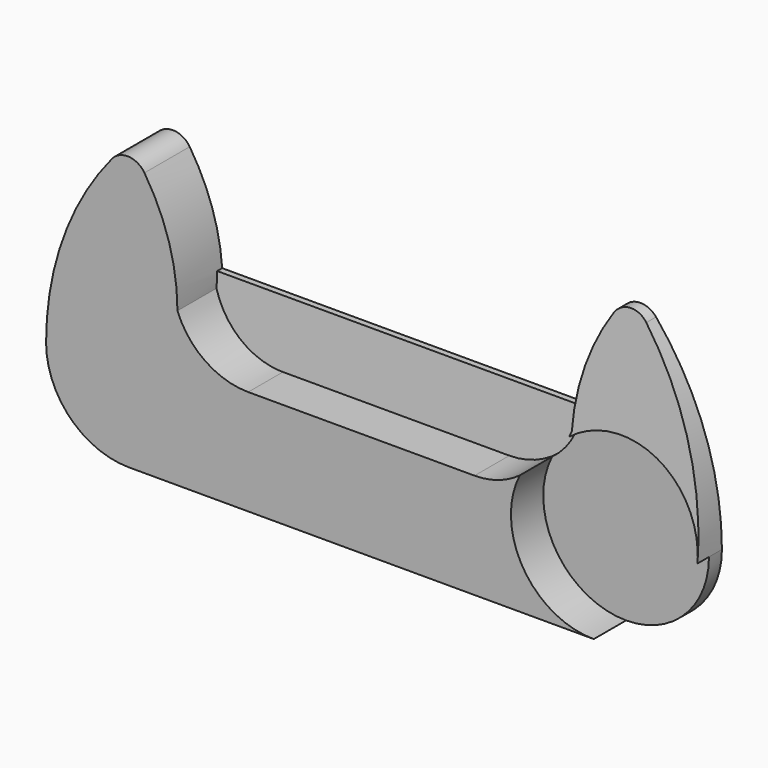
from build123d import *

# Parameters (mm, degrees)
F1_DEPTH  = 14
F2_R      = 5
F3_R      = 20.5
F4_DEPTH  = 10
F7_DEPTH  = 35.5
F10_DEPTH = 106.1


with BuildPart() as f1:
    # F0 (on Front) → F1 (new body)
    with BuildSketch(Plane.XZ):
        with BuildLine():
            ThreePointArc((45.5, 24.999816), (38.609496, 16.288102), (28, 13))
            Line((28, 13), (-28, 13))
            ThreePointArc((-28, 13), (-38.609496, 16.288102), (-45.5, 24.999816))
            ThreePointArc((-45.5, 24.999816), (-48.595144, 42.322464), (-57.5, 57.5))
            ThreePointArc((-57.5, 57.5), (-72.676021, 34.519669), (-78, 7.5))
            ThreePointArc((-78, 7.5), (-71.995689, -6.995689), (-57.5, -13))
            Line((-57.5, -13), (-28, -13))
            Line((-28, -13), (28, -13))
            Line((28, -13), (57.5, -13))
            ThreePointArc((57.5, -13), (71.995689, -6.995689), (78, 7.5))
            ThreePointArc((78, 7.5), (72.676021, 34.519669), (57.5, 57.5))
            ThreePointArc((57.5, 57.5), (48.595144, 42.322464), (45.5, 24.999816))
        make_face()
    extrude(amount=F1_DEPTH)

    # F2
    f2_edges = [f1.edges().sort_by_distance(p)[0] for p in [
        (57.5, -7, 57.5),
        (-57.5, -7, 57.5),
    ]]
    fillet(f2_edges, radius=F2_R)

    # F3 (on face) → F4 (cut)
    with BuildSketch(Plane.XZ.offset(14)):
        with Locations((57.5, 7.5)):
            Circle(F3_R)
    extrude(amount=-F4_DEPTH, mode=Mode.SUBTRACT)

    # F6 (on offset) → F7 (cut)
    with BuildSketch(Plane.YZ.offset(78.5)):
        Polygon((-16.908804, 57.223689), (-16.908804, 6.107894), (-7.749326, 5.516961), (-2.578652, 57.223689), align=None)
    extrude(amount=-F7_DEPTH, mode=Mode.SUBTRACT)

    # F9 (on offset) → F10 (join)
    with BuildSketch(Plane.YZ.offset(57)):
        Polygon((0, 0), (0, 6.538654), (0, 28.561684), (-1.554986, 28.561684), (-3.524526, 10.537416), (-3.524526, 0), align=None)
    extrude(amount=-F10_DEPTH)


solid = f1.part
